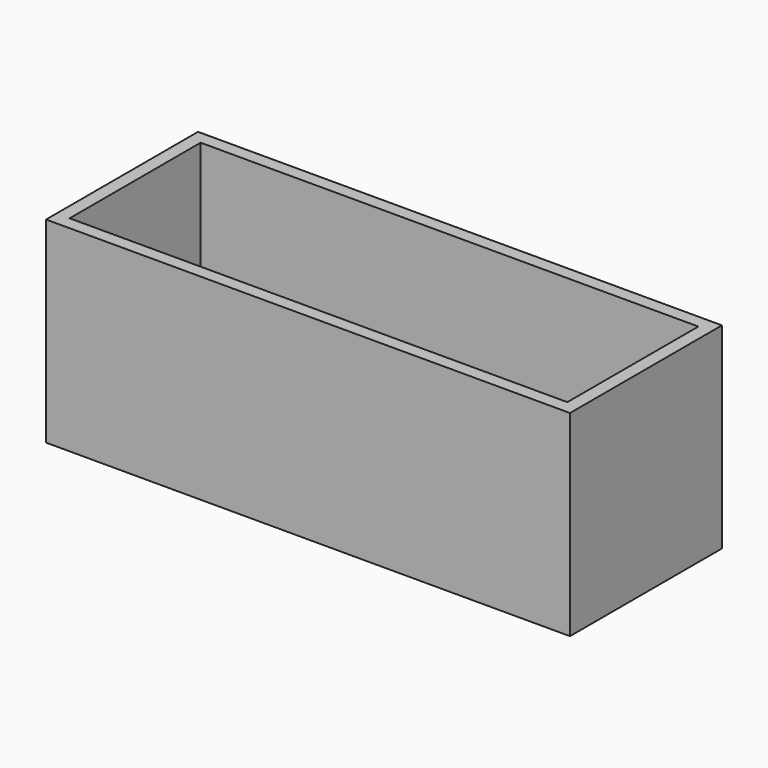
from build123d import *

# Parameters (mm, degrees)
CYLINDER_R     = 1.8
CYLINDER_DEPTH = 50
ARRAY_X_COUNT  = 2
ARRAY_X_PITCH  = 55
BOX001_W       = 76
BOX001_H       = 25
BOX001_DEPTH   = 30
BOX_W          = 80
BOX_H          = 29
BOX_DEPTH      = 30


with BuildPart() as array:
    # Cylinder → Cylinder (new body)
    with BuildSketch(Plane(origin=(12.25, 14.5, -10), x_dir=(1, 0, 0), z_dir=(0, 0, 1))):
        Circle(CYLINDER_R)
    extrude(amount=CYLINDER_DEPTH)

    # Array X: Array ×2


with BuildPart() as array_1:
    add(array.part)
    with Locations(*[(i * ARRAY_X_PITCH, 0, 0) for i in range(1, ARRAY_X_COUNT)]):
        add(array.part)


with BuildPart() as fusion:
    # Box001 → Box001 (new body)
    with BuildSketch(Plane(origin=(2, 2, 2), x_dir=(1, 0, 0), z_dir=(0, 0, 1))):
        with Locations((38, 12.5)):
            Rectangle(BOX001_W, BOX001_H)
    extrude(amount=BOX001_DEPTH)

    # Fusion: union Array
    add(array_1.part)


with BuildPart() as cut:
    # Box → Box (new body)
    with BuildSketch(Plane.XY):
        with Locations((40, 14.5)):
            Rectangle(BOX_W, BOX_H)
    extrude(amount=BOX_DEPTH)

    # Cut: cut Fusion
    add(fusion.part, mode=Mode.SUBTRACT)


solid = cut.part
